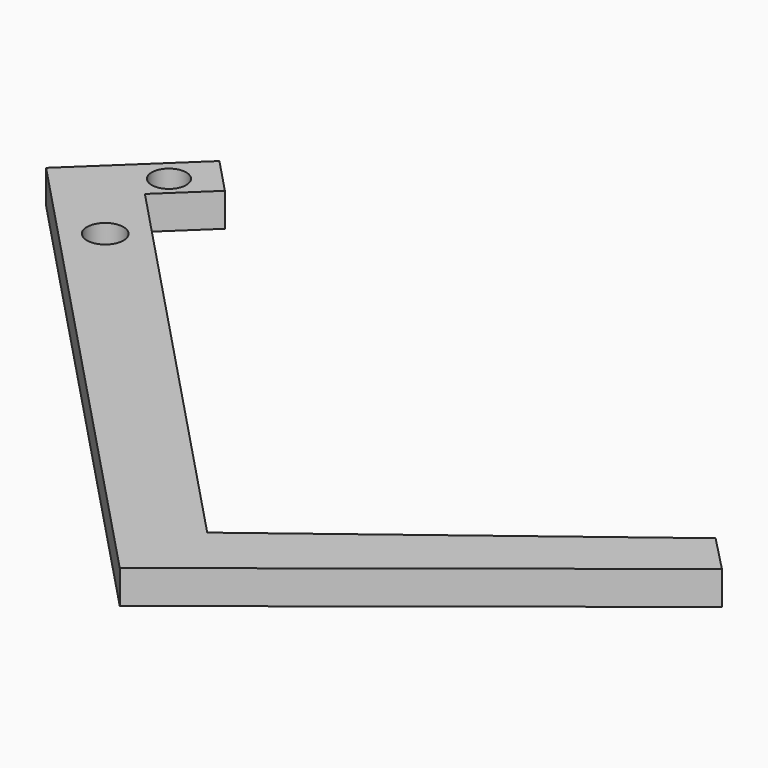
from build123d import *

# Parameters (mm, degrees)
F0_R     = 1.75
F0_R_2   = 1.65
F1_DEPTH = 3.2


with BuildPart() as f1:
    # F0 (on Top) → F1 (new body)
    with BuildSketch(Plane.XY):
        Polygon((71.828594, -60.633621), (107.063372, -32.642365), (103.584308, -29.051248), (73.348405, -52.06842), (35.475992, -12.185087), (39.826901, -8.05355), (36.497256, -4.547111), (27.070287, -13.498772), align=None)
        with Locations((37.1828, -19.065376)):
            Circle(F0_R, mode=Mode.SUBTRACT)
        with Locations((35.342539, -9.140059)):
            Circle(F0_R_2, mode=Mode.SUBTRACT)
    extrude(amount=F1_DEPTH)


solid = f1.part
